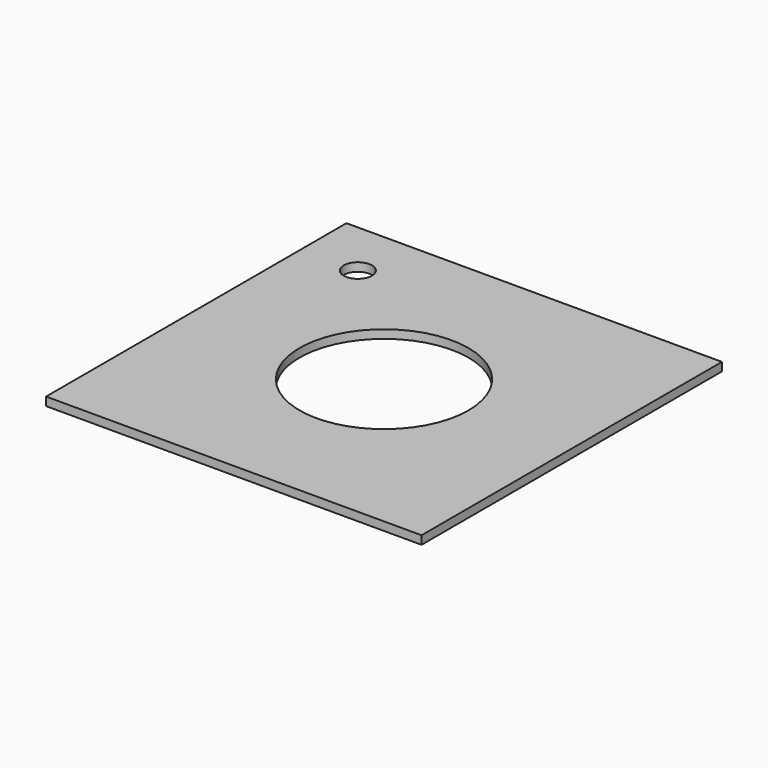
from build123d import *

# Parameters (mm, degrees)
F0_W     = 222.25
F0_H     = 222.25
F1_DEPTH = 5
F2_R     = 50
F3_DEPTH = 5.001
F4_R     = 8.334375
F5_DEPTH = 5.001


with BuildPart() as f1:
    # F0 (on Top) → F1 (new body)
    with BuildSketch(Plane.XY):
        Rectangle(F0_W, F0_H)
    extrude(amount=F1_DEPTH)

    # F2 (on face) → F3 (cut, through all)
    with BuildSketch(Plane.XY.offset(5)):
        Circle(F2_R)
    extrude(amount=-F3_DEPTH, mode=Mode.SUBTRACT)

    # F4 (on face) → F5 (cut, through all)
    with BuildSketch(Plane.XY.offset(5)):
        with Locations((-77.390625, 77.390625)):
            Circle(F4_R)
    extrude(amount=-F5_DEPTH, mode=Mode.SUBTRACT)


solid = f1.part
